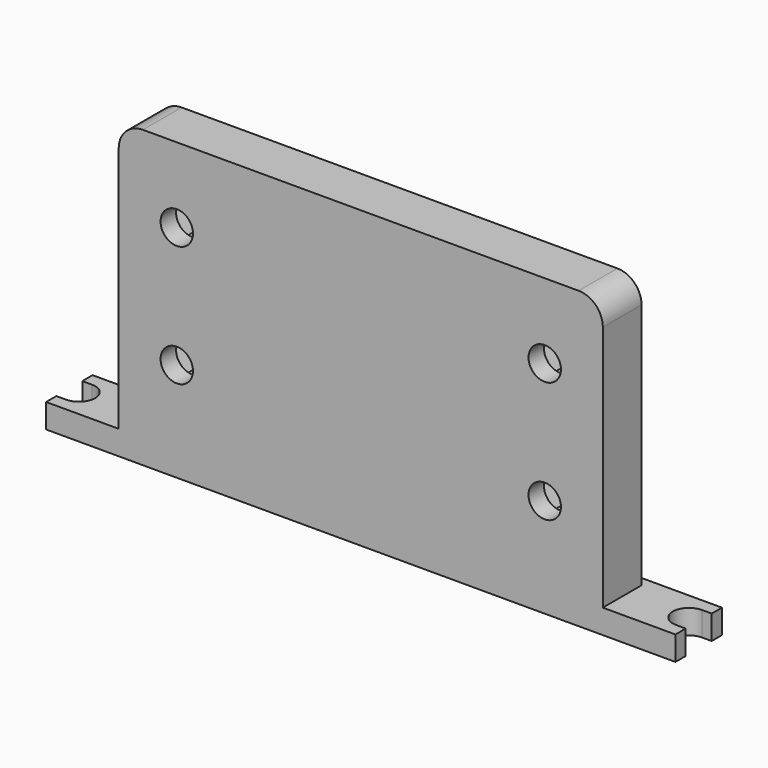
from build123d import *

# Parameters (mm, degrees)
F0_R     = 3.35
F1_DEPTH = 12
F3_DEPTH = 5
F5_DEPTH = 8
F6_W     = 100
F6_H     = 56
F7_DEPTH = 2
F8_R     = 5


with BuildPart() as f1:
    # F0 (on Front) → F1 (new body)
    with BuildSketch(Plane.XZ):
        Polygon((-65, 5), (-65, 0), (65, 0), (65, 5), (50, 5), (50, 61), (-50, 61), (-50, 5), align=None)
        with Locations((-38, 20.5)):
            Circle(F0_R, mode=Mode.SUBTRACT)
        with Locations((38, 20.5)):
            Circle(F0_R, mode=Mode.SUBTRACT)
        with Locations((-38, 45.5)):
            Circle(F0_R, mode=Mode.SUBTRACT)
        with Locations((38, 45.5)):
            Circle(F0_R, mode=Mode.SUBTRACT)
    extrude(amount=F1_DEPTH)

    # F2 (on face) → F3 (cut, through all)
    with BuildSketch(Plane(origin=(0, 0, 0), x_dir=(1, 0, 0), z_dir=(0, 0, -1))):
        with BuildLine():
            Line((-65, 2.65), (-63, 2.65))
            ThreePointArc((-63, 2.65), (-59.65, 6), (-63, 9.35))
            Line((-63, 9.35), (-65, 9.35))
            Line((-65, 9.35), (-65, 2.65))
        make_face()
        with BuildLine():
            Line((65, 9.35), (63, 9.35))
            ThreePointArc((63, 9.35), (59.65, 6), (63, 2.65))
            Line((63, 2.65), (65, 2.65))
            Line((65, 2.65), (65, 9.35))
        make_face()
    extrude(amount=-F3_DEPTH, mode=Mode.SUBTRACT)

    # F4 (on face) → F5 (cut)
    with BuildSketch(Plane(origin=(0, 0, 0), x_dir=(-1, 0, 0), z_dir=(0, 1, 0))):
        Polygon((35.113249, 25.5), (32.226497, 20.5), (35.113249, 15.5), (40.886751, 15.5), (43.773503, 20.5), (40.886751, 25.5), align=None)
        Polygon((-40.886751, 25.5), (-43.773503, 20.5), (-40.886751, 15.5), (-35.113249, 15.5), (-32.226497, 20.5), (-35.113249, 25.5), align=None)
        Polygon((35.113249, 50.5), (32.226497, 45.5), (35.113249, 40.5), (40.886751, 40.5), (43.773503, 45.5), (40.886751, 50.5), align=None)
        Polygon((-40.886751, 50.5), (-43.773503, 45.5), (-40.886751, 40.5), (-35.113249, 40.5), (-32.226497, 45.5), (-35.113249, 50.5), align=None)
    extrude(amount=-F5_DEPTH, mode=Mode.SUBTRACT)

    # F6 (on face) → F7 (cut)
    with BuildSketch(Plane(origin=(0, 0, 0), x_dir=(-1, 0, 0), z_dir=(0, 1, 0))):
        with Locations((0, 33)):
            Rectangle(F6_W, F6_H)
    extrude(amount=-F7_DEPTH, mode=Mode.SUBTRACT)

    # F8
    f8_edges = [f1.edges().sort_by_distance(p)[0] for p in [
        (-50, -7, 61),
        (50, -7, 61),
    ]]
    fillet(f8_edges, radius=F8_R)


solid = f1.part
